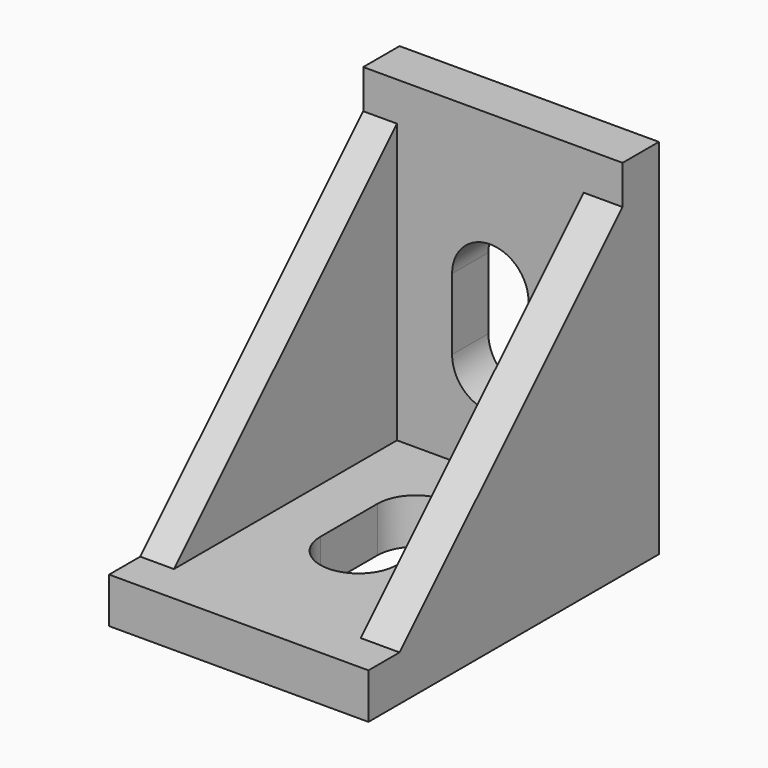
from build123d import *

# Parameters (mm, degrees)
PAD_DEPTH            = 10
BOX_W                = 27
BOX_H                = 24.4
BOX_DEPTH            = 14.4
POCKET_DEPTH         = 3.5
POCKET001_DEPTH      = 4
BODY_ROLL_ANGLE      = 90
BODY_PLACEMENT_ANGLE = -90


with BuildPart() as part:
    # Sketch → Pad (new body, symmetric)
    with BuildSketch(Plane.XY):
        Polygon((0, 0), (0, 28), (3.5, 28), (3.5, 25), (25, 3.5), (28, 3.5), (28, 0), align=None)
    extrude(amount=PAD_DEPTH, both=True)

    # Box → Box (cut)
    with BuildSketch(Plane(origin=(3.5, 3.5, -7), x_dir=(1, 0, 0), z_dir=(0, 0, 1))):
        with Locations((13.5, 12.2)):
            Rectangle(BOX_W, BOX_H)
    extrude(amount=BOX_DEPTH, mode=Mode.SUBTRACT)

    # Sketch001 (on Face17 of Box) → Pocket (cut)
    with BuildSketch(Plane(origin=(3.5, 3.5, -7), x_dir=(0, 1, 0), z_dir=(1, 0, 0))):
        with BuildLine():
            ThreePointArc((7.2, 10.15), (4.25, 7.2), (7.2, 4.25))
            Line((7.2, 4.25), (12.7, 4.25))
            ThreePointArc((12.7, 4.25), (15.65, 7.2), (12.7, 10.15))
            Line((7.2, 10.15), (12.7, 10.15))
        make_face()
    extrude(amount=-POCKET_DEPTH, mode=Mode.SUBTRACT)

    # Sketch002 (on Face21 of Pocket) → Pocket001 (cut)
    with BuildSketch(Plane(origin=(3.5, 3.5, -7), x_dir=(-1, 0, 0), z_dir=(0, 1, 0))):
        with BuildLine():
            ThreePointArc((-12.7, 10.15), (-15.65, 7.2), (-12.7, 4.25))
            Line((-12.7, 4.25), (-7.2, 4.25))
            ThreePointArc((-7.2, 4.25), (-4.25, 7.2), (-7.2, 10.15))
            Line((-12.7, 10.15), (-7.2, 10.15))
        make_face()
    extrude(amount=-POCKET001_DEPTH, mode=Mode.SUBTRACT)


with BuildPart() as part_1:
    # Body roll: moved
    add(part.part.rotate(Axis((0, 0, 0), (1, 0, 0)), BODY_ROLL_ANGLE))


with BuildPart() as part_2:
    # Body placement: moved
    add(part_1.part.rotate(Axis((0, 0, 0), (0, 0, 1)), BODY_PLACEMENT_ANGLE))


solid = part_2.part
